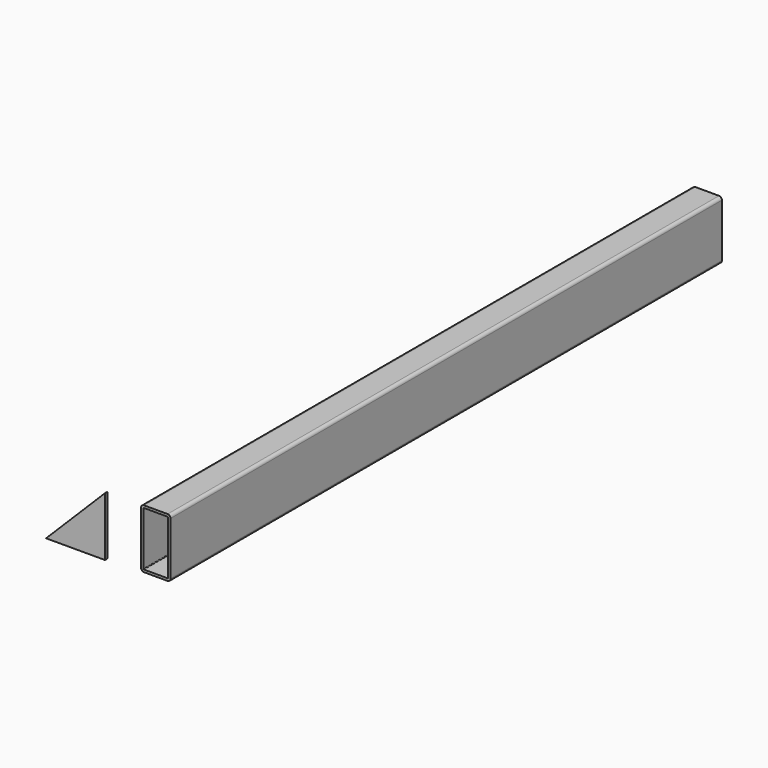
from build123d import *

# Parameters (mm, degrees)
F0_W     = 50
F0_H     = 1170
F1_DEPTH = 100
F2_R     = 5
F3_T     = -4
F5_DEPTH = 5


with BuildPart() as f1:
    # F0 (on Top) → F1 (new body)
    with BuildSketch(Plane.XY):
        with Locations((25, 585)):
            Rectangle(F0_W, F0_H)
    extrude(amount=F1_DEPTH)

    # F2
    f2_edges = [f1.edges().sort_by_distance(p)[0] for p in [
        (50, 585, 100),
        (0, 585, 100),
        (50, 585, 0),
        (0, 585, 0),
    ]]
    fillet(f2_edges, radius=F2_R)

    # F3
    f3_openings = [f1.faces().sort_by_distance(p)[0] for p in [
        (25, 0, 50),
        (25, 1170, 50),
    ]]
    offset(amount=F3_T, openings=f3_openings)


with BuildPart() as f5:
    # F4 (on Front) → F5 (new body)
    with BuildSketch(Plane.XZ):
        Polygon((-157.241035, 0), (-57.241035, 0), (-57.241035, 100), align=None)
    extrude(amount=F5_DEPTH)


solid = Compound([f1.part, f5.part])
